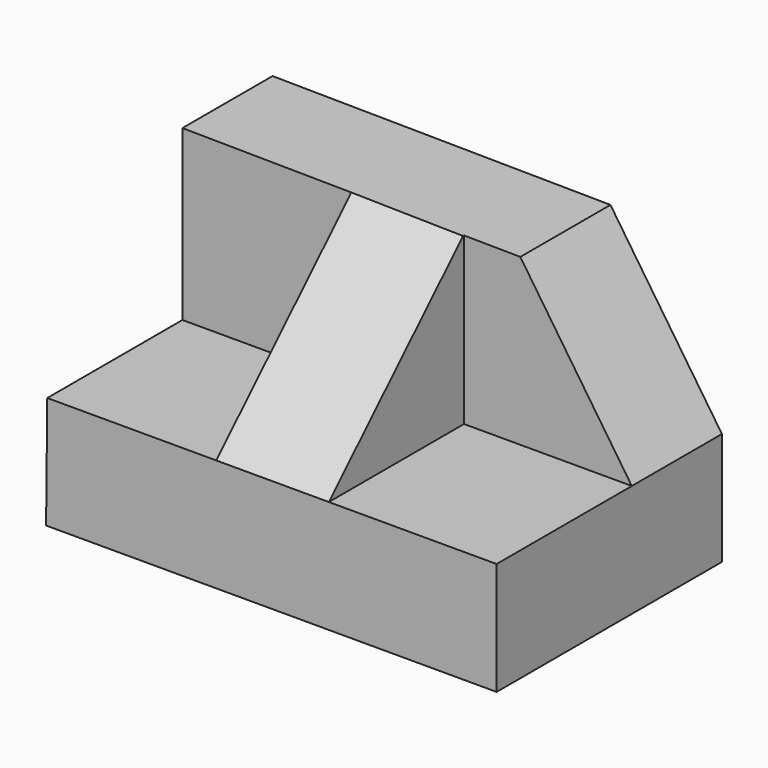
from build123d import *

# Parameters (mm, degrees)
F1_DEPTH = 31.75
F2_W     = 19.05
F2_H     = 19.05
F3_DEPTH = 19.05
F5_DEPTH = 12.7
F7_DEPTH = 19.05


with BuildPart() as f1:
    # F0 (on Front) → F1 (new body)
    with BuildSketch(Plane.XZ):
        Polygon((-59.386093, 12.7), (-59.519075, 0), (-8.719075, 0), (-8.719075, 12.7), align=None)
        Polygon((-59.386093, 31.75), (-59.386093, 12.7), (-8.719075, 12.7), (-21.288181, 31.351074), align=None)
    extrude(amount=F1_DEPTH)

    # F2 (on face) → F3 (cut)
    with BuildSketch(Plane(origin=(-59.386093, 0, 0), x_dir=(0, -1, 0), z_dir=(-1, 0, 0))):
        with Locations((22.225, 22.225)):
            Rectangle(F2_W, F2_H)
    extrude(amount=-F3_DEPTH, mode=Mode.SUBTRACT)

    # F4 (on face) → F5 (cut)
    with BuildSketch(Plane(origin=(-40.336093, 0, 0), x_dir=(0, -1, 0), z_dir=(-1, 0, 0))):
        Polygon((12.7, 31.550526), (31.75, 12.7), (31.75, 31.550526), align=None)
    extrude(amount=-F5_DEPTH, mode=Mode.SUBTRACT)

    # F6 (on face) → F7 (cut)
    with BuildSketch(Plane.XZ.offset(31.75)):
        Polygon((-27.636093, 31.417544), (-27.636093, 12.7), (-8.719075, 12.7), (-21.288181, 31.351074), align=None)
    extrude(amount=-F7_DEPTH, mode=Mode.SUBTRACT)


solid = f1.part
